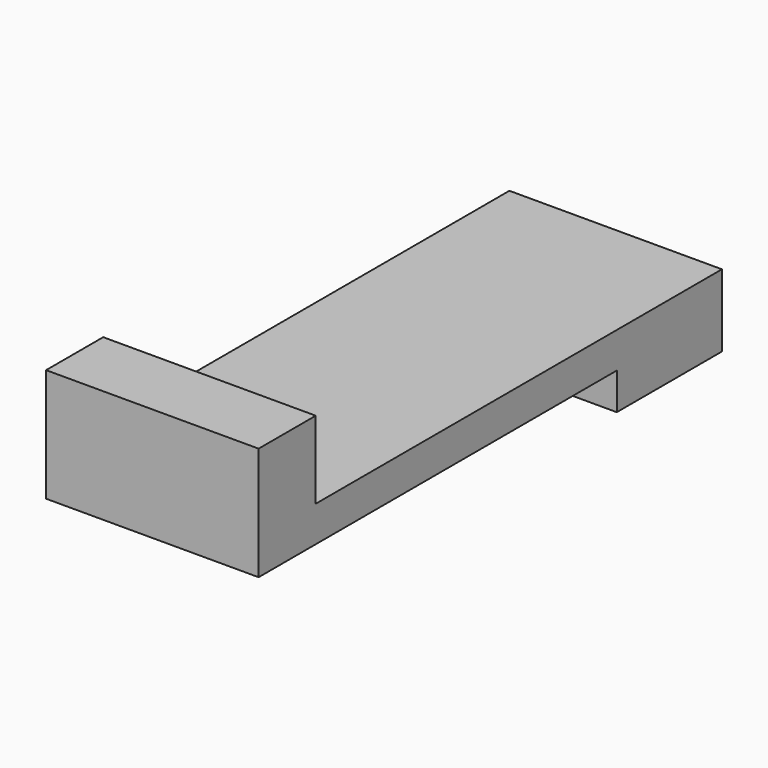
from build123d import *

# Parameters (mm, degrees)
F1_DEPTH = 66.548


with BuildPart() as f1:
    # F0 (on Right) → F1 (new body)
    with BuildSketch(Plane.YZ):
        Polygon((0, -5.588), (0, 5.588), (-58.913485, 5.588), (-58.913485, 29.855885), (-81.265485, 29.855885), (-81.265485, 5.588), (-81.265485, -5.588), (-58.913485, -5.588), align=None)
        Polygon((100.061485, 5.588), (58.913485, 5.588), (0, 5.588), (0, -5.588), (58.913485, -5.588), (58.913485, -17.083315), (100.061485, -17.083315), align=None)
    extrude(amount=-F1_DEPTH)


solid = f1.part
